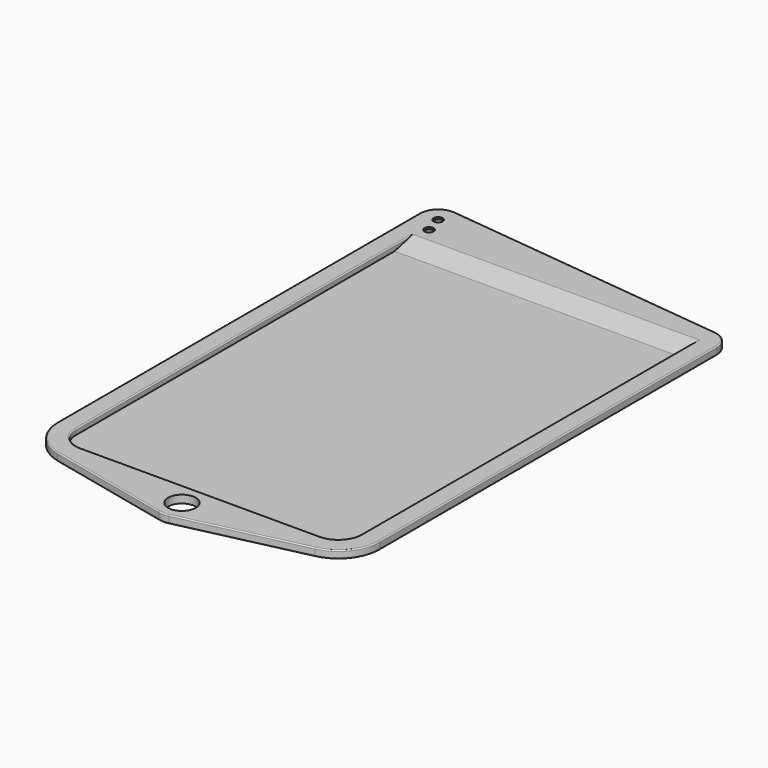
from build123d import *

# Parameters (mm, degrees)
F4_R     = 3
F4_R_2   = 1
F5_DEPTH = 1.7
F6_DEPTH = 0.5
F8_DEPTH = 62
F4_R_3   = 0.75
F9_DEPTH = 1.4
F10_R    = 0.25


with BuildPart() as f5:
    # F4 (on Top) → F5 (new body)
    with BuildSketch(Plane.XY):
        with BuildLine():
            ThreePointArc((-43.2966782842, 88.958070665), (-46.4043790169, 87.9618261956), (-47.7356673777, 84.9822325677))
            Line((-47.7356673777, 84.9822325677), (-47.7356673777, -13.3634495586))
            ThreePointArc((-47.7356673777, -13.3634495586), (-45.7684587141, -18.9794842824), (-40.7268127068, -22.1404274143))
            Line((-40.7268127068, -22.1404274143), (-13.8418592272, -28.2395483673))
            ThreePointArc((-13.8418592272, -28.2395483673), (-12.7356673777, -28.3634495586), (-11.6294755282, -28.2395483673))
            Line((-11.6294755282, -28.2395483673), (15.2554779514, -22.1404274143))
            ThreePointArc((15.2554779514, -22.1404274143), (20.2971239587, -18.9794842824), (22.2643326223, -13.3634495586))
            Line((22.2643326223, -13.3634495586), (22.2643326223, 78.1365504414))
            ThreePointArc((22.2643326223, 78.1365504414), (21.2439262501, 80.8052620805), (18.7033217158, 82.1123885387))
            Line((18.7033217158, 82.1123885387), (-43.2966782842, 88.958070665))
        make_face()
        with Locations((-12.7356673777, -23.3634495586)):
            Circle(F4_R, mode=Mode.SUBTRACT)
        with BuildLine():
            Line((-43.7356673777, 73.1365504414), (-43.7356673777, 78.1365504414))
            Line((-43.7356673777, 78.1365504414), (18.2643326223, 78.1365504414))
            Line((18.2643326223, 78.1365504414), (18.2643326223, 73.1365504414))
            Line((18.2643326223, 73.1365504414), (18.2643326223, -13.3634495586))
            ThreePointArc((18.2643326223, -13.3634495586), (16.7998665282, -16.8989834645), (13.2643326223, -18.3634495586))
            Line((13.2643326223, -18.3634495586), (-38.7356673777, -18.3634495586))
            ThreePointArc((-38.7356673777, -18.3634495586), (-42.2712012836, -16.8989834645), (-43.7356673777, -13.3634495586))
            Line((-43.7356673777, -13.3634495586), (-43.7356673777, 73.1365504414))
        make_face(mode=Mode.SUBTRACT)
        with Locations((-42.6353360717, 81.1365504414)):
            Circle(F4_R_2, mode=Mode.SUBTRACT)
        with Locations((-43.7356673777, 84.9822325677)):
            Circle(F4_R_2, mode=Mode.SUBTRACT)
    extrude(amount=F5_DEPTH)

    # F4 (on Top) → F6 (join)
    with BuildSketch(Plane.XY):
        with BuildLine():
            Line((18.2643326223, 73.1365504414), (-43.7356673777, 73.1365504414))
            Line((-43.7356673777, 73.1365504414), (-43.7356673777, -13.3634495586))
            ThreePointArc((-43.7356673777, -13.3634495586), (-42.2712012836, -16.8989834645), (-38.7356673777, -18.3634495586))
            Line((-38.7356673777, -18.3634495586), (13.2643326223, -18.3634495586))
            ThreePointArc((13.2643326223, -18.3634495586), (16.7998665282, -16.8989834645), (18.2643326223, -13.3634495586))
            Line((18.2643326223, -13.3634495586), (18.2643326223, 73.1365504414))
        make_face()
    extrude(amount=F6_DEPTH)

    # F7 (on face) → F8 (join, through all)
    with BuildSketch(Plane(origin=(18.2643326223, 0, 0), x_dir=(0, -1, 0), z_dir=(-1, 0, 0))):
        Polygon((-73.1365504414, 0), (-73.1365504414, 0.5), (-78.1365504414, 1.7), (-78.1365504414, 0), align=None)
    extrude(amount=F8_DEPTH)

    # F4 (on Top) → F9 (join, through all)
    with BuildSketch(Plane.XY):
        with Locations((-43.7356673777, 84.9822325677)):
            Circle(F4_R_2)
        with Locations((-43.7356673777, 84.9822325677)):
            Circle(F4_R_3, mode=Mode.SUBTRACT)
        with Locations((-42.6353360717, 81.1365504414)):
            Circle(F4_R_2)
        with Locations((-42.6353360717, 81.1365504414)):
            Circle(F4_R_3, mode=Mode.SUBTRACT)
    extrude(amount=F9_DEPTH)

    # F10
    f10_edges = [f5.edges().sort_by_distance(p)[0] for p in [
        (-43.735667, 32.38655, 1.7),
        (22.264333, 32.38655, 1.7),
        (-27.284336, -25.189988, 0),
    ]]
    fillet(f10_edges, radius=F10_R)


solid = f5.part
